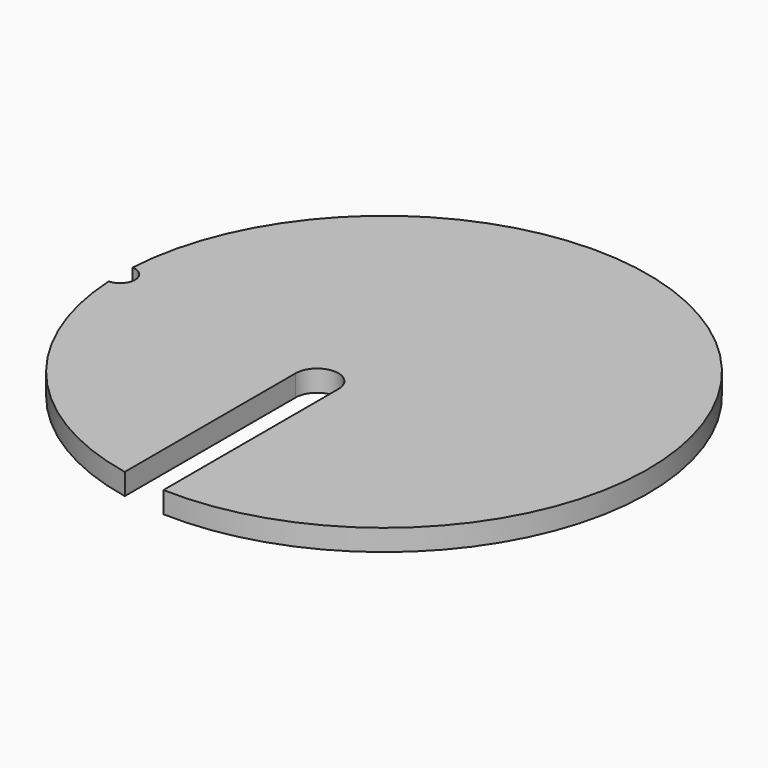
from build123d import *

# Parameters (mm, degrees)
F1_DEPTH = 2.54


with BuildPart() as f1:
    # F0 (on Top) → F1 (new body)
    with BuildSketch(Plane.XY):
        with BuildLine():
            ThreePointArc((-31.318611, 1.777286), (-29.591, 0), (-31.318611, -1.777286))
            ThreePointArc((-31.318611, -1.777286), (-23.709347, -20.539743), (-6.223, -30.745543))
            Line((-6.223, -30.745543), (-6.223, -5.345543))
            ThreePointArc((-6.223, -5.345543), (-3.683, -2.805543), (-1.143, -5.345543))
            Line((-1.143, -5.345543), (-1.143, -31.348169))
            ThreePointArc((-1.143, -31.348169), (23.189717, 21.124658), (-31.318611, 1.777286))
        make_face()
    extrude(amount=F1_DEPTH)


solid = f1.part
